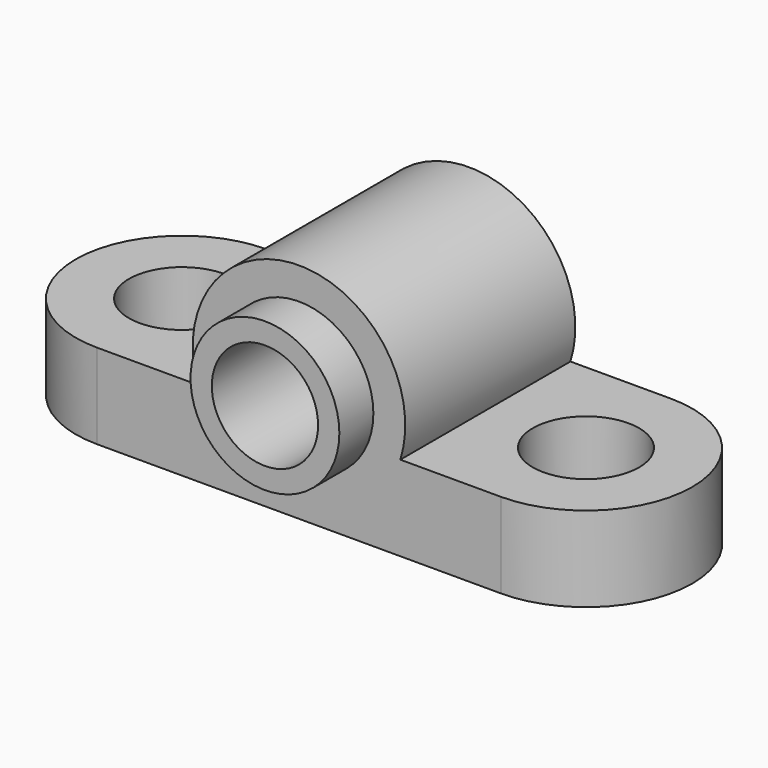
from build123d import *

# Parameters (mm, degrees)
F0_R     = 5
F1_DEPTH = 8
F2_R     = 7
F3_DEPTH = 20
F2_R_2   = 5
F4_DEPTH = 24
F5_D     = 10
F5_DEPTH = 20
F5_TIP   = 3.0043030951


with BuildPart() as f1:
    # F0 (on Top) → F1 (new body)
    with BuildSketch(Plane.XY):
        with BuildLine():
            Line((19, 0), (0, 0))
            Line((0, 0), (-19, 0))
            ThreePointArc((-19, 0), (-29, -10), (-19, -20))
            Line((-19, -20), (0, -20))
            Line((0, -20), (19, -20))
            ThreePointArc((19, -20), (29, -10), (19, 0))
        make_face()
        with Locations((-19, -10)):
            Circle(F0_R, mode=Mode.SUBTRACT)
        with Locations((19, -10)):
            Circle(F0_R, mode=Mode.SUBTRACT)
    extrude(amount=F1_DEPTH)

    # F2 (on Front) → F3 (join)
    with BuildSketch(Plane.XZ):
        with BuildLine():
            ThreePointArc((-10, 11), (0, 1), (10, 11))
            ThreePointArc((10, 11), (0, 21), (-10, 11))
        make_face()
        with Locations((0, 11)):
            Circle(F2_R, mode=Mode.SUBTRACT)
    extrude(amount=F3_DEPTH)

    # F2 (on Front) → F4 (join)
    with BuildSketch(Plane.XZ):
        with Locations((0, 11)):
            Circle(F2_R)
        with Locations((0, 11)):
            Circle(F2_R_2, mode=Mode.SUBTRACT)
    extrude(amount=F4_DEPTH)

    # F5
    with Locations(Plane(origin=(0, 0, 0), x_dir=(1, 0, 0), z_dir=(0, 1, 0))):
        with Locations((0, -11)):
            Hole(F5_D / 2, depth=F5_DEPTH)
            with Locations((0, 0, -(F5_DEPTH + F5_TIP / 2))):  # 118° drill point
                Cone(0, F5_D / 2, F5_TIP, mode=Mode.SUBTRACT)


solid = f1.part
